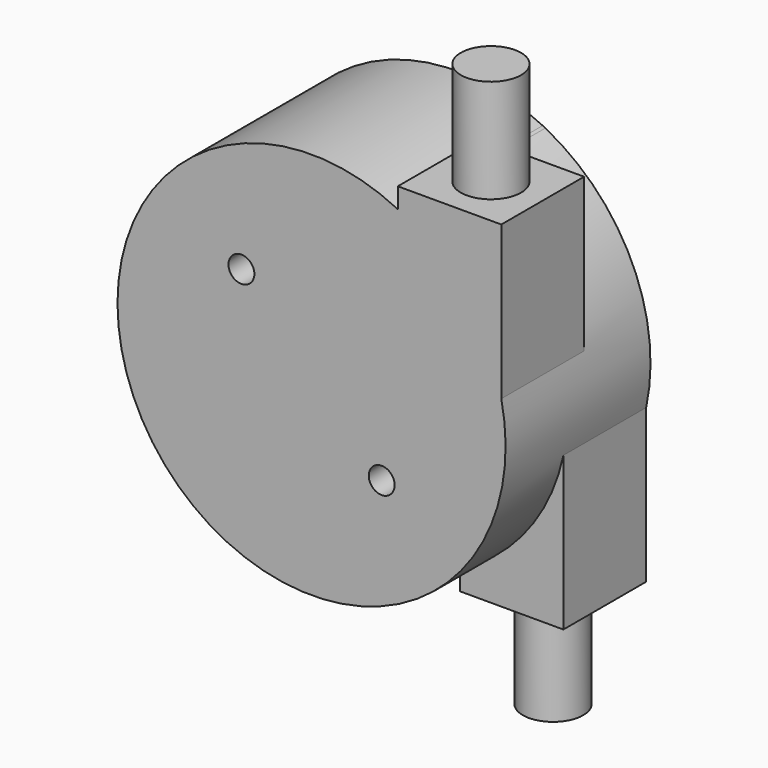
from build123d import *

# Parameters (mm, degrees)
F0_R      = 22.5
F1_DEPTH  = 21
F3_DEPTH  = 21
F6_DEPTH  = 9
F4_R      = 3.5
F7_DEPTH  = 12
F8_DEPTH  = 20
F9_DEPTH  = 9
F11_DEPTH = 20
F10_R     = 3.5
F12_DEPTH = 12
F2_R      = 1.5
F13_DEPTH = 21.001


with BuildPart() as f1:
    # F0 (on Front) → F1 (new body)
    with BuildSketch(Plane.XZ):
        Circle(F0_R)
    extrude(amount=F1_DEPTH)

    # F2 (on face) → F3 (join)
    with BuildSketch(Plane.XZ.offset(21)):
        with BuildLine():
            Line((22, 22.5), (10, 22.5))
            Line((10, 22.5), (10, 20.1556443707))
            ThreePointArc((10, 20.1556443707), (10.1541802531, 20.0784118741), (10.307764064, 20))
            Line((10.307764064, 20), (22, 20))
            Line((22, 20), (22, 22.5))
        make_face()
        with BuildLine():
            ThreePointArc((10.307764064, -20), (10.1541802531, -20.0784118741), (10, -20.1556443707))
            Line((10, -20.1556443707), (10, -22.5))
            Line((10, -22.5), (22, -22.5))
            Line((22, -22.5), (22, -20))
            Line((22, -20), (10.307764064, -20))
        make_face()
        with BuildLine():
            ThreePointArc((10.307764064, 20), (10.1541802531, 20.0784118741), (10, 20.1556443707))
            Line((10, 20.1556443707), (10, 20))
            Line((10, 20), (10.307764064, 20))
        make_face()
        with BuildLine():
            Line((10, -20), (10, -20.1556443707))
            ThreePointArc((10, -20.1556443707), (10.1541802531, -20.0784118741), (10.307764064, -20))
            Line((10.307764064, -20), (10, -20))
        make_face()
    extrude(amount=-F3_DEPTH)

    # F5 (on face) → F6 (cut)
    with BuildSketch(Plane(origin=(0, 0, 0), x_dir=(-1, 0, 0), z_dir=(0, 1, 0))):
        Polygon((-10.307764064, 20), (-10, 20.1556443707), (-10, 22.5), (-22, 22.5), (-22, 20), align=None)
    extrude(amount=-F6_DEPTH, mode=Mode.SUBTRACT)

    # F4 (on face) → F7 (join)
    with BuildSketch(Plane.XY.offset(22.5)):
        with Locations((16, -15)):
            Circle(F4_R)
    extrude(amount=F7_DEPTH)

    # F8 (add): a face of the model
    f8_faces = [f1.faces().sort_by_distance(p)[0] for p in [
        (16.153882032, -15, 20),
    ]]
    extrude(f8_faces, amount=F8_DEPTH)

    # F2 (on face) → F9 (cut)
    with BuildSketch(Plane.XZ.offset(21)):
        with BuildLine():
            ThreePointArc((10.307764064, -20), (10.1541802531, -20.0784118741), (10, -20.1556443707))
            Line((10, -20.1556443707), (10, -22.5))
            Line((10, -22.5), (22, -22.5))
            Line((22, -22.5), (22, -20))
            Line((22, -20), (10.307764064, -20))
        make_face()
    extrude(amount=-F9_DEPTH, mode=Mode.SUBTRACT)

    # F11 (add): a face of the model
    f11_faces = [f1.faces().sort_by_distance(p)[0] for p in [
        (16.153882032, -6, -20),
    ]]
    extrude(f11_faces, amount=F11_DEPTH)

    # F10 (on face) → F12 (join)
    with BuildSketch(Plane(origin=(0, 0, -22.5), x_dir=(1, 0, 0), z_dir=(0, 0, -1))):
        with Locations((16, 6)):
            Circle(F10_R)
    extrude(amount=F12_DEPTH)

    # F2 (on face) → F13 (cut, through all)
    with BuildSketch(Plane.XZ.offset(21)):
        with Locations((8.1317279836, -8.1317279836)):
            Circle(F2_R)
        with Locations((-8.1317279836, 8.1317279836)):
            Circle(F2_R)
    extrude(amount=-F13_DEPTH, mode=Mode.SUBTRACT)


solid = f1.part
